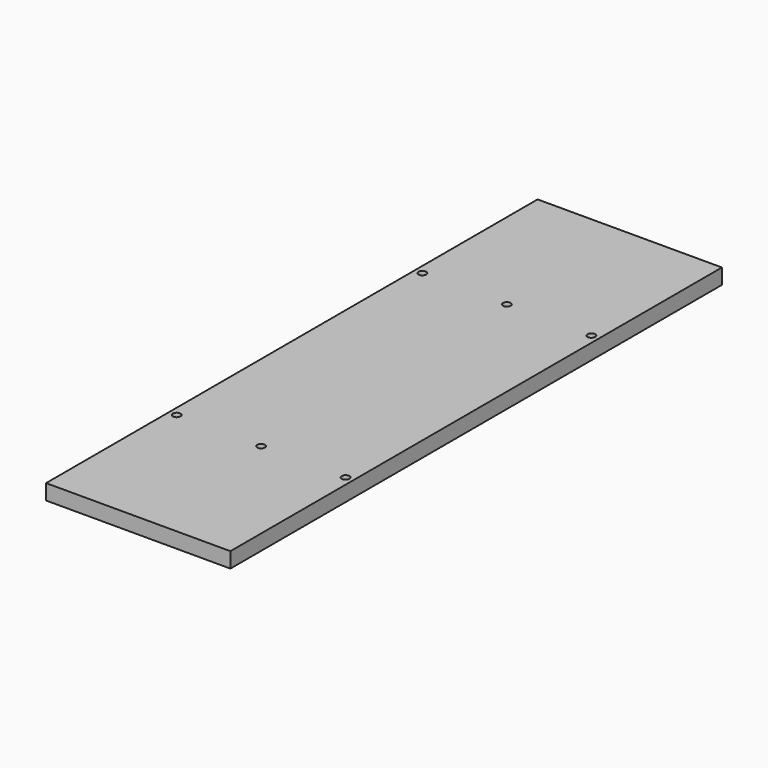
from build123d import *

# Parameters (mm, degrees)
F0_W     = 152.4
F0_H     = 508
F2_DEPTH = 12.7
F1_R     = 3.175
F3_DEPTH = 12.7


with BuildPart() as f2:
    # F0 (on Top) → F2 (new body)
    with BuildSketch(Plane.XY):
        Rectangle(F0_W, F0_H)
    extrude(amount=F2_DEPTH)

    # F1 (on Top) → F3 (cut, through all)
    with BuildSketch(Plane.XY):
        with Locations((-69.85, 127)):
            Circle(F1_R)
        with Locations((69.85, 127)):
            Circle(F1_R)
        with Locations((69.85, -127)):
            Circle(F1_R)
        with Locations((-69.85, -127)):
            Circle(F1_R)
        with Locations((0, 127)):
            Circle(F1_R)
        with Locations((0, -127)):
            Circle(F1_R)
    extrude(amount=F3_DEPTH, mode=Mode.SUBTRACT)


solid = f2.part
